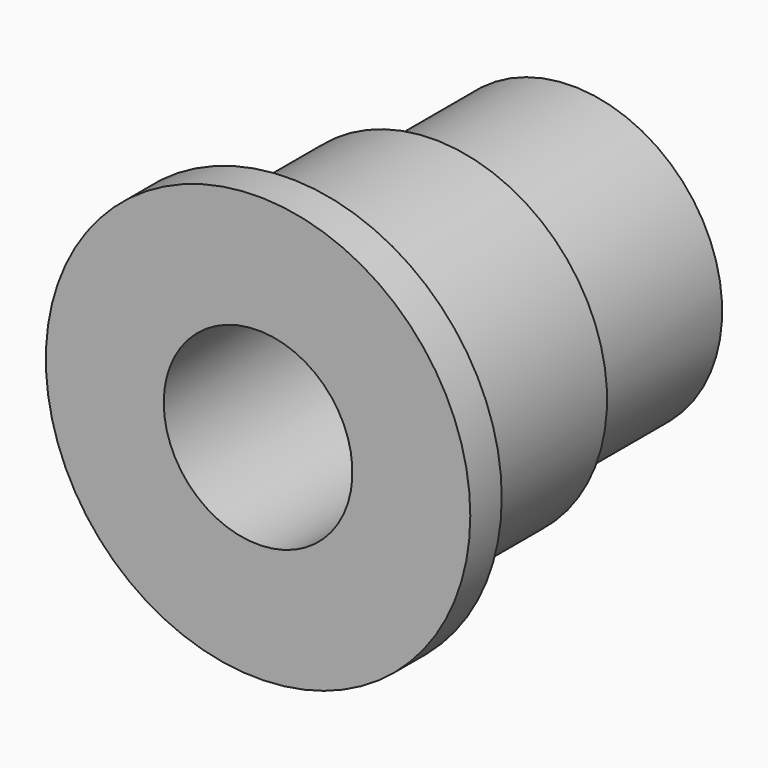
from build123d import *

# Parameters (mm, degrees)
F0_R     = 13.5
F0_R_2   = 11.985483
F1_DEPTH = 2.5
F2_R     = 11
F3_DEPTH = 11.5
F4_R     = 9.52
F5_DEPTH = 11
F6_R     = 6
F7_DEPTH = 25


with BuildPart() as f1:
    # F0 (on Front) → F1 (new body)
    with BuildSketch(Plane.XZ):
        Circle(F0_R)
        Circle(F0_R_2, mode=Mode.SUBTRACT)
        Circle(F0_R_2)
    extrude(amount=F1_DEPTH)

    # F2 (on face) → F3 (join)
    with BuildSketch(Plane(origin=(0, 0, 0), x_dir=(-1, 0, 0), z_dir=(0, 1, 0))):
        Circle(F2_R)
    extrude(amount=F3_DEPTH)

    # F4 (on face) → F5 (join)
    with BuildSketch(Plane(origin=(0, 11.5, 0), x_dir=(-1, 0, 0), z_dir=(0, 1, 0))):
        Circle(F4_R)
    extrude(amount=F5_DEPTH)

    # F6 (on face) → F7 (cut)
    with BuildSketch(Plane(origin=(0, 22.5, 0), x_dir=(-1, 0, 0), z_dir=(0, 1, 0))):
        Circle(F6_R)
    extrude(amount=-F7_DEPTH, mode=Mode.SUBTRACT)


solid = f1.part
